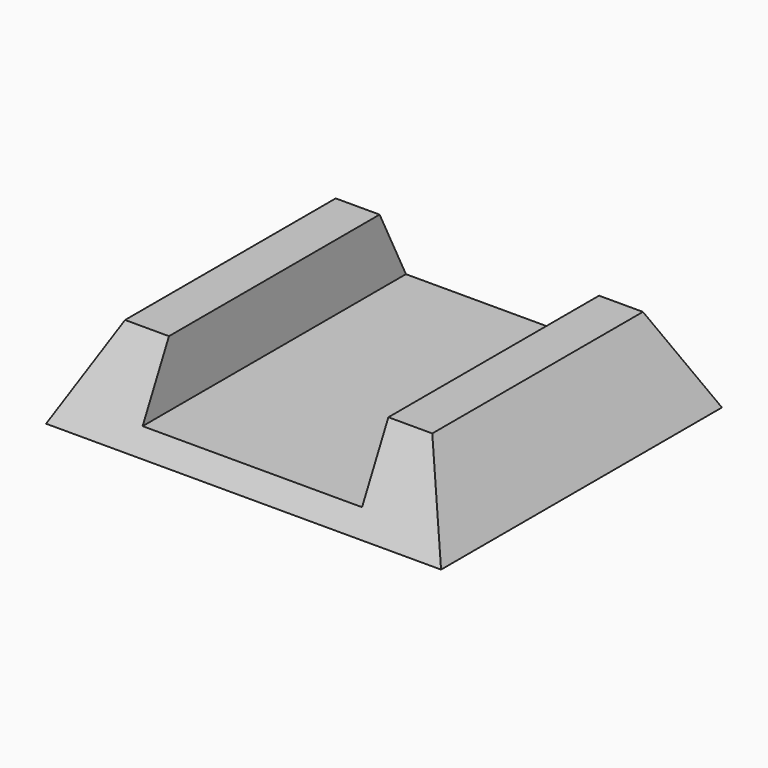
from build123d import *

# Parameters (mm, degrees)
F2_W     = 88.9
F2_H     = 76.2
F0_W     = 114.3
F0_H     = 101.6
F4_W     = 63.5
F4_H     = 192.27982
F5_DEPTH = 19.05


with BuildPart() as f3:
    # F2 (on offset) → F3 section 0
    with BuildSketch(Plane.XY.offset(25.4)):
        Rectangle(F2_W, F2_H)
    # F0 (on Top) → F3 section 1
    with BuildSketch(Plane.XY):
        Rectangle(F0_W, F0_H)
    loft()

    # F4 (on face) → F5 (cut)
    with BuildSketch(Plane.XY.offset(25.4)):
        Rectangle(F4_W, F4_H)
    extrude(amount=-F5_DEPTH, mode=Mode.SUBTRACT)


solid = f3.part
